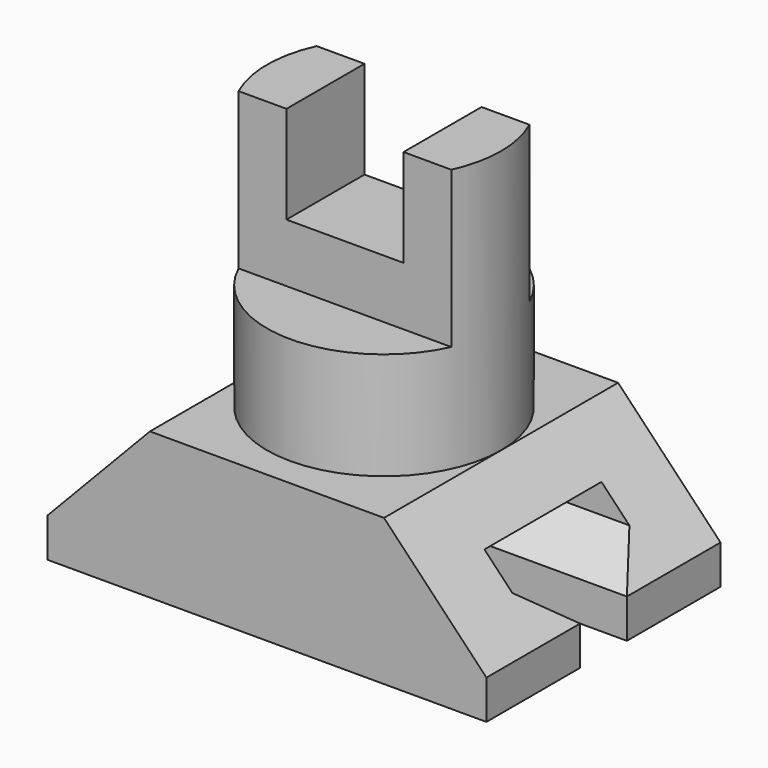
from build123d import *

# Parameters (mm, degrees)
F1_DEPTH = 150
F2_R     = 120
F3_DEPTH = 270
F4_W     = 717.304408
F4_H     = 111.2508
F4_W_2   = 697.326451
F4_H_2   = 148.352754
F5_DEPTH = 160
F6_W     = 120
F6_H     = 100
F7_DEPTH = 100
F9_DEPTH = 450.001


with BuildPart() as f1:
    # F0 (on Front) → F1 (new body, symmetric)
    with BuildSketch(Plane.XZ):
        Polygon((-225, -75), (225, -75), (225, -35), (120, 75), (-120, 75), (-225, -35), align=None)
    extrude(amount=F1_DEPTH, both=True)

    # F2 (on face) → F3 (join)
    with BuildSketch(Plane.XY.offset(75)):
        Circle(F2_R)
    extrude(amount=F3_DEPTH)

    # F4 (on face) → F5 (cut)
    with BuildSketch(Plane.XY.offset(345)):
        with Locations((0, 105.6254)):
            Rectangle(F4_W, F4_H)
        with Locations((9.988979, -124.176377)):
            Rectangle(F4_W_2, F4_H_2)
    extrude(amount=-F5_DEPTH, mode=Mode.SUBTRACT)

    # F6 (on face) → F7 (cut)
    with BuildSketch(Plane.XY.offset(345)):
        Rectangle(F6_W, F6_H)
    extrude(amount=-F7_DEPTH, mode=Mode.SUBTRACT)

    # F8 (on face) → F9 (cut, through all)
    with BuildSketch(Plane.YZ.offset(225)):
        Polygon((-30, -35), (-30, -75), (30, -75), (30, -35), (75, 0), (75, 30), (-75, 30), (-75, 0), align=None)
    extrude(amount=-F9_DEPTH, mode=Mode.SUBTRACT)


solid = f1.part
